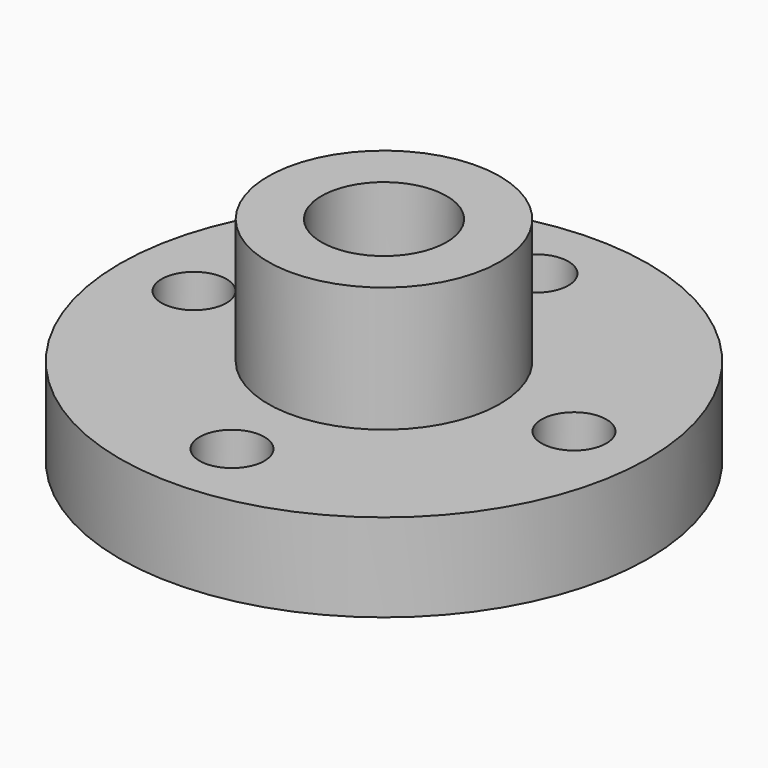
from build123d import *

# Parameters (mm, degrees)
F0_R     = 57
F0_R_2   = 7
F0_R_3   = 13.5
F1_DEPTH = 19
F2_R     = 25
F2_R_2   = 13.5
F3_DEPTH = 27


with BuildPart() as f1:
    # F0 (on Top) → F1 (new body)
    with BuildSketch(Plane.XY):
        Circle(F0_R)
        with Locations((0, -41)):
            Circle(F0_R_2, mode=Mode.SUBTRACT)
        with Locations((-41, 0)):
            Circle(F0_R_2, mode=Mode.SUBTRACT)
        Circle(F0_R_3, mode=Mode.SUBTRACT)
        with Locations((41, 0)):
            Circle(F0_R_2, mode=Mode.SUBTRACT)
        with Locations((0, 41)):
            Circle(F0_R_2, mode=Mode.SUBTRACT)
    extrude(amount=F1_DEPTH)

    # F2 (on face) → F3 (join)
    with BuildSketch(Plane.XY.offset(19)):
        Circle(F2_R)
        Circle(F2_R_2, mode=Mode.SUBTRACT)
    extrude(amount=F3_DEPTH)


solid = f1.part
